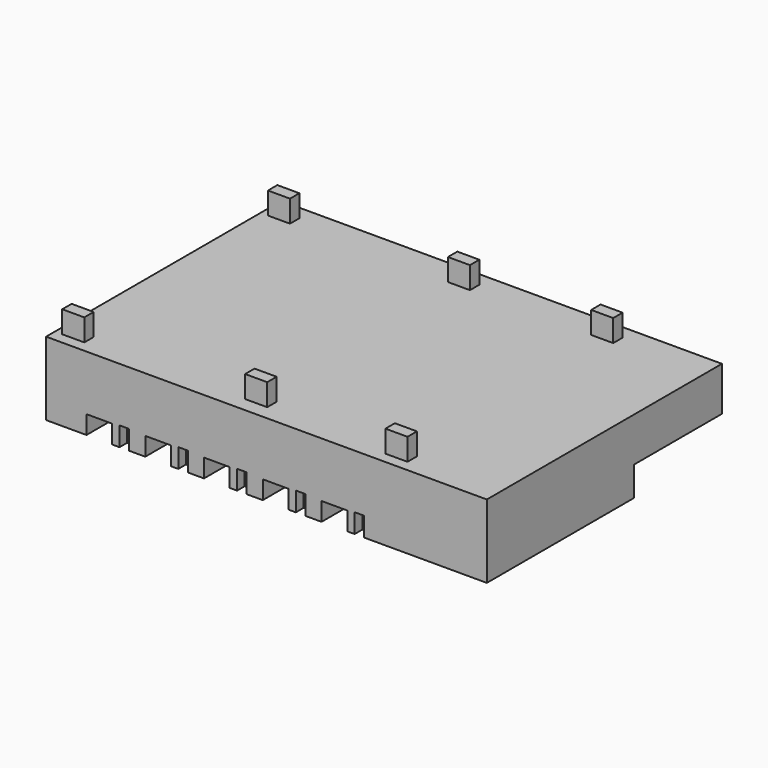
from build123d import *

# Parameters (mm, degrees)
BOX006_W     = 1066.8
BOX006_H     = 1981.2
BOX006_DEPTH = 762
BOX005_W     = 396.24
BOX005_H     = 396.24
BOX005_DEPTH = 798.576
BOX007_W     = 1066.8
BOX007_H     = 1981.2
BOX007_DEPTH = 762
BOX008_W     = 396.24
BOX008_H     = 396.24
BOX008_DEPTH = 798.576
BOX010_W     = 1066.8
BOX010_H     = 1981.2
BOX010_DEPTH = 762
BOX009_W     = 396.24
BOX009_H     = 396.24
BOX009_DEPTH = 798.576
BOX001_W     = 1066.8
BOX001_H     = 1981.2
BOX001_DEPTH = 762
BOX002_W     = 396.24
BOX002_H     = 396.24
BOX002_DEPTH = 798.576
BOX003_W     = 1066.8
BOX003_H     = 1981.2
BOX003_DEPTH = 762
BOX004_W     = 396.24
BOX004_H     = 396.24
BOX004_DEPTH = 798.576
BOX011_W     = 3048
BOX011_H     = 4572
BOX011_DEPTH = 1219.2
BOX014_W     = 914.4
BOX014_H     = 487.68
BOX014_DEPTH = 1219.2
BOX015_W     = 914.4
BOX015_H     = 487.68
BOX015_DEPTH = 1219.2
BOX018_W     = 914.4
BOX018_H     = 487.68
BOX018_DEPTH = 1219.2
BOX019_W     = 914.4
BOX019_H     = 487.68
BOX019_DEPTH = 1219.2
BOX020_W     = 914.4
BOX020_H     = 487.68
BOX020_DEPTH = 1219.2
BOX021_W     = 914.4
BOX021_H     = 487.68
BOX021_DEPTH = 1219.2
BOX_W        = 18288
BOX_H        = 12192
BOX_DEPTH    = 3048


with BuildPart() as box006:
    # Box006 → Box006 (new body)
    with BuildSketch(Plane.XY):
        with Locations((533.4, 990.6)):
            Rectangle(BOX006_W, BOX006_H)
    extrude(amount=BOX006_DEPTH)


with BuildPart() as fusion002:
    # Box005 → Box005 (new body)
    with BuildSketch(Plane(origin=(1371.6, 0, 0), x_dir=(1, 0, 0), z_dir=(0, 0, 1))):
        with Locations((198.12, 198.12)):
            Rectangle(BOX005_W, BOX005_H)
    extrude(amount=BOX005_DEPTH)

    # Fusion002: union Box006
    add(box006.part)


with BuildPart() as fusion002_1:
    # Fusion002 placement: moved
    add(fusion002.part.moved(Location((4876.8, 0, 0))))


with BuildPart() as box007:
    # Box007 → Box007 (new body)
    with BuildSketch(Plane.XY):
        with Locations((533.4, 990.6)):
            Rectangle(BOX007_W, BOX007_H)
    extrude(amount=BOX007_DEPTH)


with BuildPart() as fusion003:
    # Box008 → Box008 (new body)
    with BuildSketch(Plane(origin=(1371.6, 0, 0), x_dir=(1, 0, 0), z_dir=(0, 0, 1))):
        with Locations((198.12, 198.12)):
            Rectangle(BOX008_W, BOX008_H)
    extrude(amount=BOX008_DEPTH)

    # Fusion003: union Box007
    add(box007.part)


with BuildPart() as fusion003_1:
    # Fusion003 placement: moved
    add(fusion003.part.moved(Location((7315.2, 0, 0))))


with BuildPart() as box010:
    # Box010 → Box010 (new body)
    with BuildSketch(Plane.XY):
        with Locations((533.4, 990.6)):
            Rectangle(BOX010_W, BOX010_H)
    extrude(amount=BOX010_DEPTH)


with BuildPart() as fusion004:
    # Box009 → Box009 (new body)
    with BuildSketch(Plane(origin=(1371.6, 0, 0), x_dir=(1, 0, 0), z_dir=(0, 0, 1))):
        with Locations((198.12, 198.12)):
            Rectangle(BOX009_W, BOX009_H)
    extrude(amount=BOX009_DEPTH)

    # Fusion004: union Box010
    add(box010.part)


with BuildPart() as fusion004_1:
    # Fusion004 placement: moved
    add(fusion004.part.moved(Location((9753.6, 0, 0))))


with BuildPart() as box001:
    # Box001 → Box001 (new body)
    with BuildSketch(Plane.XY):
        with Locations((533.4, 990.6)):
            Rectangle(BOX001_W, BOX001_H)
    extrude(amount=BOX001_DEPTH)


with BuildPart() as fusion:
    # Box002 → Box002 (new body)
    with BuildSketch(Plane(origin=(1371.6, 0, 0), x_dir=(1, 0, 0), z_dir=(0, 0, 1))):
        with Locations((198.12, 198.12)):
            Rectangle(BOX002_W, BOX002_H)
    extrude(amount=BOX002_DEPTH)

    # Fusion: union Box001
    add(box001.part)


with BuildPart() as box003:
    # Box003 → Box003 (new body)
    with BuildSketch(Plane.XY):
        with Locations((533.4, 990.6)):
            Rectangle(BOX003_W, BOX003_H)
    extrude(amount=BOX003_DEPTH)


with BuildPart() as right_beds:
    # Box004 → Box004 (new body)
    with BuildSketch(Plane(origin=(1371.6, 0, 0), x_dir=(1, 0, 0), z_dir=(0, 0, 1))):
        with Locations((198.12, 198.12)):
            Rectangle(BOX004_W, BOX004_H)
    extrude(amount=BOX004_DEPTH)

    # Fusion001: union Box003
    add(box003.part)


with BuildPart() as right_beds_1:
    # Fusion001 placement: moved
    add(right_beds.part.moved(Location((2438.4, 0, 0))))

    # Fusion005: union Fusion002, Fusion003, Fusion004, Fusion
    add(fusion002_1.part)
    add(fusion003_1.part)
    add(fusion004_1.part)
    add(fusion.part)


with BuildPart() as all_beds:
    # Part__Mirroring: instance of right beds
    add(right_beds_1.part.mirror(Plane(origin=(0, 6096, 0), x_dir=(1, 0, 0), z_dir=(0, 1, 0))))

    # Fusion006: union right beds
    add(right_beds_1.part)


with BuildPart() as all_beds_1:
    # Fusion006 placement: moved
    add(all_beds.part.moved(Location((1676.4, 0, 0))))


with BuildPart() as surfaces:
    # Box011 → Box011 (new body)
    with BuildSketch(Plane(origin=(15240, 7620, 0), x_dir=(1, 0, 0), z_dir=(0, 0, 1))):
        with Locations((1524, 2286)):
            Rectangle(BOX011_W, BOX011_H)
    extrude(amount=BOX011_DEPTH)

    # Fusion008: union all beds
    add(all_beds_1.part)


with BuildPart() as box014:
    # Box014 → Box014 (new body)
    with BuildSketch(Plane(origin=(13716, 11125.2, 2743.2), x_dir=(1, 0, 0), z_dir=(0, 0, 1))):
        with Locations((457.2, 243.84)):
            Rectangle(BOX014_W, BOX014_H)
    extrude(amount=BOX014_DEPTH)


with BuildPart() as box015:
    # Box015 → Box015 (new body)
    with BuildSketch(Plane(origin=(13716, 457.2, 2743.2), x_dir=(1, 0, 0), z_dir=(0, 0, 1))):
        with Locations((457.2, 243.84)):
            Rectangle(BOX015_W, BOX015_H)
    extrude(amount=BOX015_DEPTH)


with BuildPart() as box018:
    # Box018 → Box018 (new body)
    with BuildSketch(Plane(origin=(304.8, 457.2, 2743.2), x_dir=(1, 0, 0), z_dir=(0, 0, 1))):
        with Locations((457.2, 243.84)):
            Rectangle(BOX018_W, BOX018_H)
    extrude(amount=BOX018_DEPTH)


with BuildPart() as box019:
    # Box019 → Box019 (new body)
    with BuildSketch(Plane(origin=(304.8, 11125.2, 2743.2), x_dir=(1, 0, 0), z_dir=(0, 0, 1))):
        with Locations((457.2, 243.84)):
            Rectangle(BOX019_W, BOX019_H)
    extrude(amount=BOX019_DEPTH)


with BuildPart() as box020:
    # Box020 → Box020 (new body)
    with BuildSketch(Plane(origin=(7772.4, 11125.2, 2743.2), x_dir=(1, 0, 0), z_dir=(0, 0, 1))):
        with Locations((457.2, 243.84)):
            Rectangle(BOX020_W, BOX020_H)
    extrude(amount=BOX020_DEPTH)


with BuildPart() as fusion009:
    # Box021 → Box021 (new body)
    with BuildSketch(Plane(origin=(7772.4, 609.6, 2743.2), x_dir=(1, 0, 0), z_dir=(0, 0, 1))):
        with Locations((457.2, 243.84)):
            Rectangle(BOX021_W, BOX021_H)
    extrude(amount=BOX021_DEPTH)

    # Fusion009: union Box014, Box015, Box018, Box019, Box020
    add(box014.part)
    add(box015.part)
    add(box018.part)
    add(box019.part)
    add(box020.part)


with BuildPart() as cut:
    # Box → Box (new body)
    with BuildSketch(Plane.XY):
        with Locations((9144, 6096)):
            Rectangle(BOX_W, BOX_H)
    extrude(amount=BOX_DEPTH)

    # Fusion010: union Fusion009
    add(fusion009.part)

    # Cut: cut surfaces
    add(surfaces.part, mode=Mode.SUBTRACT)


solid = cut.part
